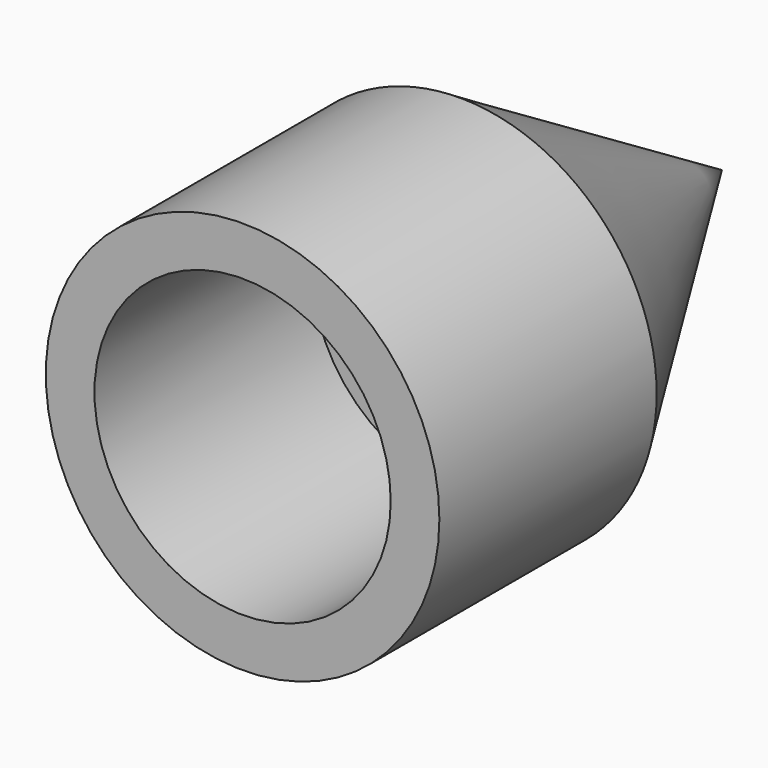
from build123d import *

# Parameters (mm, degrees)
F0_R     = 58.695205
F0_R_2   = 44.18277
F1_DEPTH = 81


with BuildPart() as f1:
    # F0 (on Front) → F1 (new body)
    with BuildSketch(Plane.XZ):
        Circle(F0_R)
        Circle(F0_R_2, mode=Mode.SUBTRACT)
    extrude(amount=F1_DEPTH)

    # F2 (on Right) → F4 (revolve)
    with BuildSketch(Plane.YZ):
        Polygon((97.713314, 0), (0, 0), (0, -58.665138), align=None)
    revolve(axis=Axis((0, 41.215118, 0), (0, 1, 0)))


solid = f1.part
